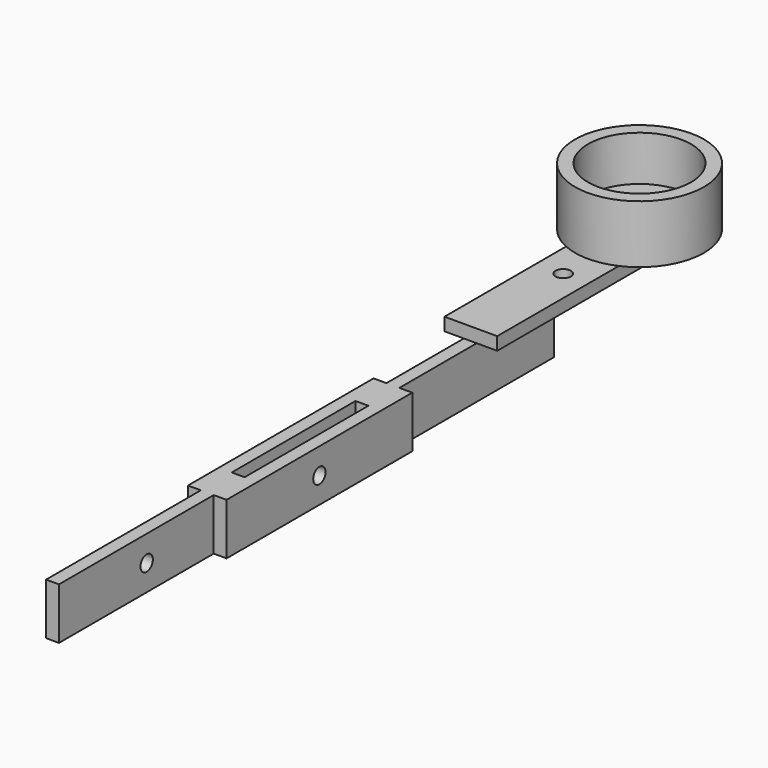
from build123d import *

# Parameters (mm, degrees)
F0_W      = 304.8
F0_H      = 25.4
F1_DEPTH  = 19.05
F2_W      = 95.25
F2_H      = 25.4
F3_DEPTH  = 6.35
F4_W      = 95.25
F4_H      = 25.4
F5_DEPTH  = 6.35
F6_W      = 95.25
F6_H      = 25.4
F7_DEPTH  = 6.35
F8_W      = 95.25
F8_H      = 25.4
F9_DEPTH  = 6.35
F10_W     = 6.35
F10_H     = 76.2
F11_DEPTH = 25.4
F12_R     = 3.81
F13_DEPTH = 25.4
F14_W     = 25.961973
F14_H     = 114.3
F15_DEPTH = 6.35
F16_R     = 3.81
F17_DEPTH = 25.4
F18_R     = 3.81
F19_DEPTH = 25.4
F20_R     = 31.75
F21_DEPTH = 28.575
F22_R     = 25.4
F23_DEPTH = 22.225


with BuildPart() as f1:
    # F0 (on Right) → F1 (new body)
    with BuildSketch(Plane.YZ):
        with Locations((152.4, 12.7)):
            Rectangle(F0_W, F0_H)
    extrude(amount=F1_DEPTH)

    # F2 (on face) → F3 (cut)
    with BuildSketch(Plane.YZ.offset(19.05)):
        with Locations((47.625, 12.7)):
            Rectangle(F2_W, F2_H)
    extrude(amount=-F3_DEPTH, mode=Mode.SUBTRACT)

    # F4 (on face) → F5 (cut)
    with BuildSketch(Plane(origin=(0, 0, 0), x_dir=(0, -1, 0), z_dir=(-1, 0, 0))):
        with Locations((-47.625, 12.7)):
            Rectangle(F4_W, F4_H)
    extrude(amount=-F5_DEPTH, mode=Mode.SUBTRACT)

    # F6 (on face) → F7 (cut)
    with BuildSketch(Plane.YZ.offset(19.05)):
        with Locations((257.175, 12.7)):
            Rectangle(F6_W, F6_H)
    extrude(amount=-F7_DEPTH, mode=Mode.SUBTRACT)

    # F8 (on face) → F9 (cut)
    with BuildSketch(Plane(origin=(0, 0, 0), x_dir=(0, -1, 0), z_dir=(-1, 0, 0))):
        with Locations((-257.175, 12.7)):
            Rectangle(F8_W, F8_H)
    extrude(amount=-F9_DEPTH, mode=Mode.SUBTRACT)

    # F10 (on face) → F11 (cut)
    with BuildSketch(Plane.XY.offset(25.4)):
        with Locations((9.525, 152.4)):
            Rectangle(F10_W, F10_H)
    extrude(amount=-F11_DEPTH, mode=Mode.SUBTRACT)

    # F12 (on face) → F13 (cut)
    with BuildSketch(Plane.YZ.offset(19.05)):
        with Locations((152.4, 12.7)):
            Circle(F12_R)
    extrude(amount=-F13_DEPTH, mode=Mode.SUBTRACT)

    # F14 (on face) → F15 (join)
    with BuildSketch(Plane.XY.offset(25.4)):
        with Locations((9.805986, 314.325)):
            Rectangle(F14_W, F14_H)
    extrude(amount=F15_DEPTH)

    # F16 (on face) → F17 (cut)
    with BuildSketch(Plane.XY.offset(31.75)):
        with Locations((10.086973, 313.690683)):
            Circle(F16_R)
    extrude(amount=-F17_DEPTH, mode=Mode.SUBTRACT)

    # F18 (on face) → F19 (cut)
    with BuildSketch(Plane.YZ.offset(12.7)):
        with Locations((53.975, 12.7)):
            Circle(F18_R)
    extrude(amount=-F19_DEPTH, mode=Mode.SUBTRACT)

    # F20 (on face) → F21 (join)
    with BuildSketch(Plane.XY.offset(31.75)):
        with Locations((9.805986, 361.007124)):
            Circle(F20_R)
    extrude(amount=F21_DEPTH)

    # F22 (on face) → F23 (cut)
    with BuildSketch(Plane.XY.offset(60.325)):
        with Locations((9.805986, 361.007124)):
            Circle(F22_R)
    extrude(amount=-F23_DEPTH, mode=Mode.SUBTRACT)


solid = f1.part
